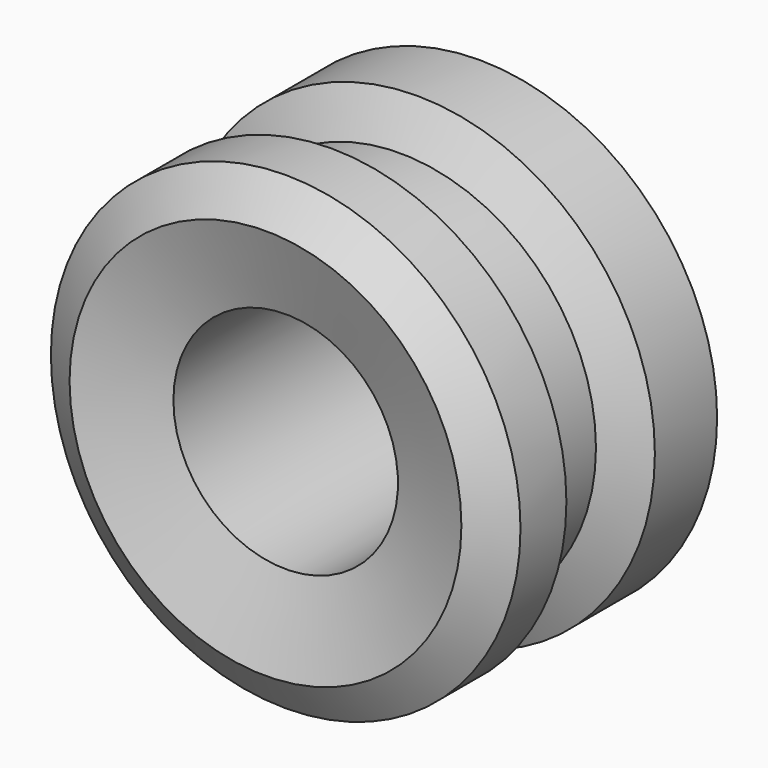
from build123d import *


with BuildPart() as f1:
    # F0 (on Top) → F1 (revolve)
    with BuildSketch(Plane.XY):
        Polygon((-25.921894, 32.430422), (-44.774182, 42.529859), (-54.873619, 34.899171), (-54.873619, 16.944615), (-45.223042, 12.007112), (-45.223042, 0), (-54.200325, -7.742903), (-54.200325, -20.984391), (-45.223042, -26.819622), (-25.921894, -20.984391), (-25.921894, 0), align=None)
    revolve(axis=Axis((0, 9.370035, 0), (0, -1, 0)))


solid = f1.part
